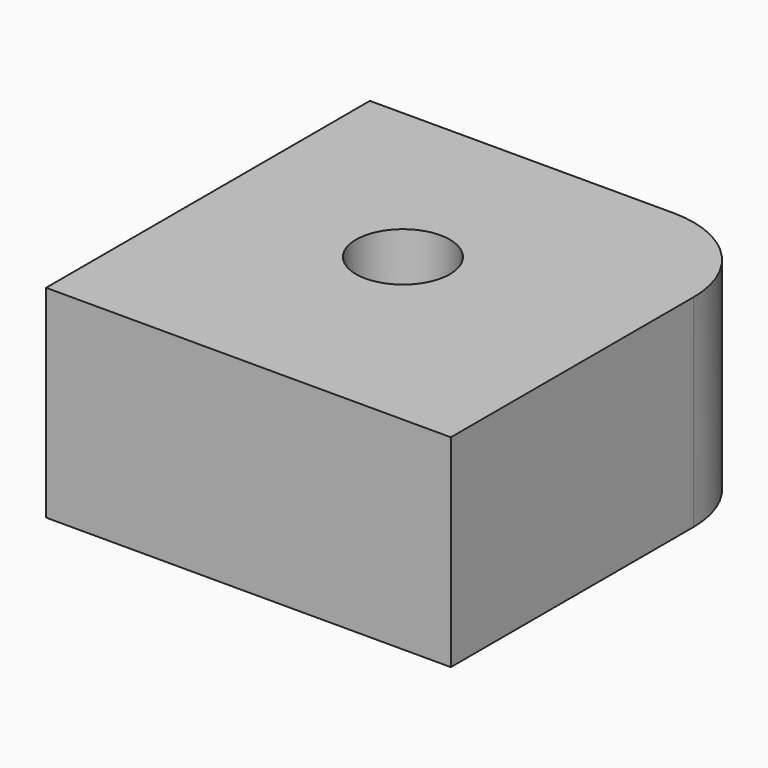
from build123d import *

# Parameters (mm, degrees)
F0_R     = 2.318026
F1_DEPTH = 10


with BuildPart() as f1:
    # F0 (on Top) → F1 (new body)
    with BuildSketch(Plane.XY):
        with BuildLine():
            Line((5.858666, 19.389222), (-9.141334, 19.389222))
            Line((-9.141334, 19.389222), (-9.141334, -0.610778))
            Line((-9.141334, -0.610778), (10.858666, -0.610778))
            Line((10.858666, -0.610778), (10.858666, 14.389222))
            ThreePointArc((10.858666, 14.389222), (9.3942, 17.924756), (5.858666, 19.389222))
        make_face()
        with Locations((0, 10.004072)):
            Circle(F0_R, mode=Mode.SUBTRACT)
    extrude(amount=F1_DEPTH)


solid = f1.part
